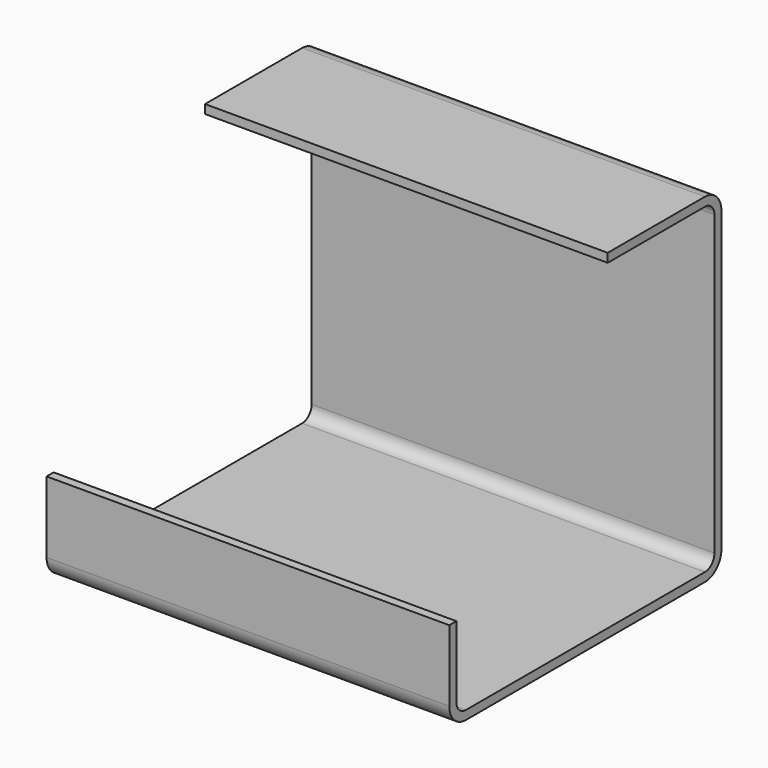
from build123d import *

# Parameters (mm, degrees)
F1_DEPTH = 107.95


with BuildPart() as f1:
    # F0 (on Right) → F1 (new body)
    with BuildSketch(Plane.YZ):
        with BuildLine():
            Line((-88.8238, 24.638), (-91.186, 24.638))
            Line((-91.186, 24.638), (-91.186, 5.5372))
            ThreePointArc((-91.186, 5.5372), (-89.564192, 1.621808), (-85.6488, 0))
            Line((-85.6488, 0), (-5.5372, 0))
            ThreePointArc((-5.5372, 0), (-1.621808, 1.621808), (0, 5.5372))
            Line((0, 5.5372), (0, 85.3948))
            ThreePointArc((0, 85.3948), (-1.621808, 89.310192), (-5.5372, 90.932))
            Line((-5.5372, 90.932), (-38.1, 90.932))
            Line((-38.1, 90.932), (-38.1, 88.5698))
            Line((-38.1, 88.5698), (-5.5372, 88.5698))
            ThreePointArc((-5.5372, 88.5698), (-3.292136, 87.639864), (-2.3622, 85.3948))
            Line((-2.3622, 85.3948), (-2.3622, 5.5372))
            ThreePointArc((-2.3622, 5.5372), (-3.292136, 3.292136), (-5.5372, 2.3622))
            Line((-5.5372, 2.3622), (-85.6488, 2.3622))
            ThreePointArc((-85.6488, 2.3622), (-87.893864, 3.292136), (-88.8238, 5.5372))
            Line((-88.8238, 5.5372), (-88.8238, 24.638))
        make_face()
    extrude(amount=F1_DEPTH)


solid = f1.part
